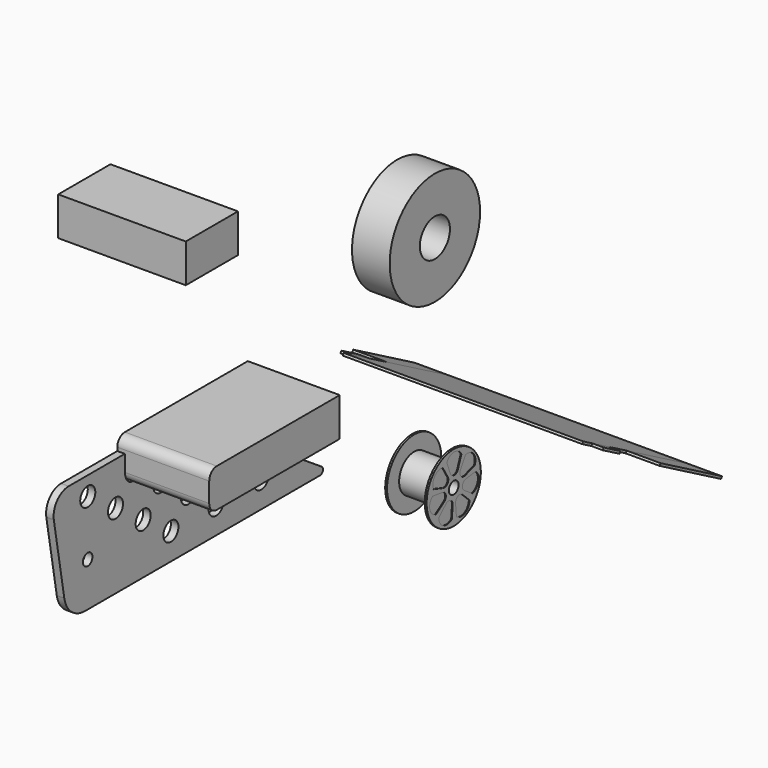
from build123d import *

# Parameters (mm, degrees)
F1_DEPTH  = 31
F2_W      = 43
F2_H      = 13
F3_DEPTH  = 22
F4_R      = 3.175
F5_DEPTH  = 2.54
F6_R      = 1.27
F7_R      = 19.05
F7_R_2    = 6.35
F8_DEPTH  = 12.7
F9_R      = 6.35
F10_DEPTH = 12.7
F11_R     = 11.43
F12_DEPTH = 0.635
F13_R     = 11.43
F14_DEPTH = 0.635
F15_R     = 2.0574
F16_DEPTH = 71.83142
F18_DEPTH = 0.2286
F20_DEPTH = 0.2286
F21_R     = 2
F22_DEPTH = 61.03642
F24_DEPTH = 80.79232
F26_DEPTH = 11.43
F27_W     = 11.43
F27_H     = 29.595654
F27_W_2   = 3.81
F27_H_2   = 8.003125
F28_DEPTH = 0.762


with BuildPart() as f1:
    # F0 (on Right) → F1 (new body)
    with BuildSketch(Plane.YZ):
        with BuildLine():
            Line((-15.227296, 13), (-67.052296, 13))
            ThreePointArc((-67.052296, 13), (-69.29736, 12.070064), (-70.227296, 9.825))
            Line((-70.227296, 9.825), (-70.227296, 3.175))
            ThreePointArc((-70.227296, 3.175), (-69.29736, 0.929936), (-67.052296, 0))
            Line((-67.052296, 0), (-15.227296, 0))
            Line((-15.227296, 0), (-15.227296, 13))
        make_face()
    extrude(amount=F1_DEPTH)


with BuildPart() as f3:
    # F2 (on Front) → F3 (new body)
    with BuildSketch(Plane.XZ):
        with Locations((-36.99542, 39.725756)):
            Rectangle(F2_W, F2_H)
    extrude(amount=F3_DEPTH)


with BuildPart() as f5:
    # F4 (on Right) → F5 (new body)
    with BuildSketch(Plane.YZ):
        with BuildLine():
            ThreePointArc((-95.734057, -23.838225), (-92.693498, -29.104628), (-86.979116, -31.184493))
            Line((-86.979116, -31.184493), (-14.050841, -31.184493))
            Line((-14.050841, -31.184493), (16.251289, -31.184493))
            Line((16.251289, -31.184493), (-43.966562, 8.672833))
            Line((-43.966562, 8.672833), (-93.898999, 8.672833))
            ThreePointArc((-93.898999, 8.672833), (-98.763381, 6.404535), (-100.152528, 1.220167))
            Line((-100.152528, 1.220167), (-95.734057, -23.838225))
        make_face()
        with Locations((-50.811946, -22.183415)):
            Circle(F4_R, mode=Mode.SUBTRACT)
        with Locations((-62.490359, -14.006102)):
            Circle(F4_R, mode=Mode.SUBTRACT)
        with Locations((-43.440359, -14.006102)):
            Circle(F4_R, mode=Mode.SUBTRACT)
        with Locations((-31.761946, -22.183415)):
            Circle(F4_R, mode=Mode.SUBTRACT)
        with Locations((-12.711946, -22.183415)):
            Circle(F4_R, mode=Mode.SUBTRACT)
        with Locations((-24.390359, -14.006102)):
            Circle(F4_R, mode=Mode.SUBTRACT)
        with Locations((-74.168772, -5.828789)):
            Circle(F4_R, mode=Mode.SUBTRACT)
        with Locations((-55.118772, -5.828789)):
            Circle(F4_R, mode=Mode.SUBTRACT)
        with Locations((-85.847185, 2.348524)):
            Circle(F4_R, mode=Mode.SUBTRACT)
        with Locations((-66.797185, 2.348524)):
            Circle(F4_R, mode=Mode.SUBTRACT)
        with Locations((-47.747185, 2.348524)):
            Circle(F4_R, mode=Mode.SUBTRACT)
        with Locations((-36.068772, -5.828789)):
            Circle(F4_R, mode=Mode.SUBTRACT)
    extrude(amount=F5_DEPTH)

    # F6
    f6_edges = [f5.edges().sort_by_distance(p)[0] for p in [
        (1.27, 16.251289, -31.184493),
    ]]
    fillet(f6_edges, radius=F6_R)

    # F21 (on face) → F22 (cut, through all)
    with BuildSketch(Plane.YZ.offset(2.54)):
        with Locations((-85.889928, -16.316278)):
            Circle(F21_R)
    extrude(amount=-F22_DEPTH, mode=Mode.SUBTRACT)


with BuildPart() as f8:
    # F7 (on Right) → F8 (new body)
    with BuildSketch(Plane.YZ):
        with Locations((47.7436, 28.159944)):
            Circle(F7_R)
        with Locations((47.7436, 28.159944)):
            Circle(F7_R_2, mode=Mode.SUBTRACT)
    extrude(amount=F8_DEPTH)


with BuildPart() as f10:
    # F9 (on Right) → F10 (new body)
    with BuildSketch(Plane.YZ):
        with Locations((54.895338, -48.721176)):
            Circle(F9_R)
    extrude(amount=F10_DEPTH)

    # F11 (on face) → F12 (join)
    with BuildSketch(Plane.YZ.offset(12.7)):
        with Locations((54.895338, -48.721176)):
            Circle(F11_R)
    extrude(amount=F12_DEPTH)

    # F13 (on face) → F14 (join)
    with BuildSketch(Plane(origin=(0, 0, 0), x_dir=(0, -1, 0), z_dir=(-1, 0, 0))):
        with Locations((-54.895338, -48.721176)):
            Circle(F13_R)
    extrude(amount=F14_DEPTH)

    # F15 (on face) → F16 (cut, through all)
    with BuildSketch(Plane.YZ.offset(13.335)):
        with Locations((54.895338, -48.721176)):
            Circle(F15_R)
    extrude(amount=-F16_DEPTH, mode=Mode.SUBTRACT)

    # F17 (on face) → F18 (cut)
    with BuildSketch(Plane.YZ.offset(13.335)):
        with BuildLine():
            ThreePointArc((58.125121, -40.131757), (56.870798, -38.723311), (55.058794, -38.200159))
            Line((55.058794, -38.200159), (55.058794, -45.11524))
            ThreePointArc((55.058794, -45.11524), (56.02756, -44.81332), (56.653269, -44.014476))
            Line((56.653269, -44.014476), (58.125121, -40.131757))
        make_face()
        with BuildLine():
            Line((55.058794, -45.11524), (55.058794, -38.200159))
            ThreePointArc((55.058794, -38.200159), (53.24679, -38.723311), (51.992467, -40.131757))
            Line((51.992467, -40.131757), (53.46432, -44.014476))
            ThreePointArc((53.46432, -44.014476), (54.090028, -44.81332), (55.058794, -45.11524))
        make_face()
        with BuildLine():
            ThreePointArc((50.25514, -40.968409), (48.371915, -41.070927), (46.833132, -42.161429))
            ThreePointArc((46.833132, -42.161429), (46.112383, -43.904291), (46.431492, -45.763112))
            Line((46.431492, -45.763112), (50.38481, -47.033207))
            ThreePointArc((50.38481, -47.033207), (52.23956, -46.472911), (52.373087, -44.539986))
            Line((52.373087, -44.539986), (50.25514, -40.968409))
        make_face()
        with BuildLine():
            ThreePointArc((46.002408, -47.643053), (44.908388, -49.179336), (44.801561, -51.062322))
            ThreePointArc((44.801561, -51.062322), (45.714806, -52.712483), (47.367052, -53.621949))
            Line((47.367052, -53.621949), (50.824905, -51.323013))
            ThreePointArc((50.824905, -51.323013), (51.543266, -49.523572), (50.115297, -48.214017))
            Line((50.115297, -48.214017), (46.002408, -47.643053))
        make_face()
        with BuildLine():
            ThreePointArc((48.569319, -55.129545), (49.088324, -56.942741), (50.493896, -58.200284))
            ThreePointArc((50.493896, -58.200284), (52.353442, -58.51514), (54.094651, -57.790404))
            Line((54.094651, -57.790404), (54.453206, -53.653582))
            ThreePointArc((54.453206, -53.653582), (53.494237, -51.970012), (51.580062, -52.269949))
            Line((51.580062, -52.269949), (48.569319, -55.129545))
        make_face()
        with BuildLine():
            ThreePointArc((56.022938, -57.790404), (57.764146, -58.51514), (59.623692, -58.200284))
            ThreePointArc((59.623692, -58.200284), (61.029264, -56.942741), (61.548269, -55.129545))
            Line((61.548269, -55.129545), (58.537526, -52.269949))
            ThreePointArc((58.537526, -52.269949), (56.623351, -51.970012), (55.664383, -53.653582))
            Line((55.664383, -53.653582), (56.022938, -57.790404))
        make_face()
        with BuildLine():
            ThreePointArc((62.750536, -53.621949), (64.402783, -52.712483), (65.316027, -51.062322))
            ThreePointArc((65.316027, -51.062322), (65.2092, -49.179336), (64.11518, -47.643053))
            Line((64.11518, -47.643053), (60.002291, -48.214017))
            ThreePointArc((60.002291, -48.214017), (58.574322, -49.523572), (59.292683, -51.323013))
            Line((59.292683, -51.323013), (62.750536, -53.621949))
        make_face()
        with BuildLine():
            ThreePointArc((63.686096, -45.763112), (64.005206, -43.904291), (63.284456, -42.161429))
            ThreePointArc((63.284456, -42.161429), (61.745673, -41.070927), (59.862448, -40.968409))
            Line((59.862448, -40.968409), (57.744501, -44.539986))
            ThreePointArc((57.744501, -44.539986), (57.878028, -46.472911), (59.732778, -47.033207))
            Line((59.732778, -47.033207), (63.686096, -45.763112))
        make_face()
    extrude(amount=-F18_DEPTH, mode=Mode.SUBTRACT)

    # F19 (on face) → F20 (cut)
    with BuildSketch(Plane(origin=(-0.635, 0, 0), x_dir=(0, -1, 0), z_dir=(-1, 0, 0))):
        with BuildLine():
            ThreePointArc((-51.926125, -40.364868), (-53.050527, -38.781439), (-54.895338, -38.174644))
            Line((-54.895338, -38.174644), (-54.895338, -44.837232))
            ThreePointArc((-54.895338, -44.837232), (-53.94396, -44.547159), (-53.316263, -43.775629))
            Line((-53.316263, -43.775629), (-51.926125, -40.364868))
        make_face()
        with BuildLine():
            Line((-54.895338, -44.837232), (-54.895338, -38.174644))
            ThreePointArc((-54.895338, -38.174644), (-56.740148, -38.781439), (-57.86455, -40.364868))
            Line((-57.86455, -40.364868), (-56.474412, -43.775629))
            ThreePointArc((-56.474412, -43.775629), (-55.846715, -44.547159), (-54.895338, -44.837232))
        make_face()
        with BuildLine():
            ThreePointArc((-59.577288, -41.189679), (-61.516316, -41.08152), (-63.140948, -42.145521))
            ThreePointArc((-63.140948, -42.145521), (-63.816757, -43.966182), (-63.279836, -45.832527))
            Line((-63.279836, -45.832527), (-59.746459, -46.872248))
            ThreePointArc((-59.746459, -46.872248), (-57.931927, -46.299577), (-57.777385, -44.403107))
            Line((-57.777385, -44.403107), (-59.577288, -41.189679))
        make_face()
        with BuildLine():
            ThreePointArc((-63.702847, -47.685861), (-64.996373, -49.134418), (-65.177446, -51.068))
            ThreePointArc((-65.177446, -51.068), (-64.175355, -52.731532), (-62.381424, -53.475397))
            Line((-62.381424, -53.475397), (-59.365512, -51.361147))
            ThreePointArc((-59.365512, -51.361147), (-58.681902, -49.585434), (-60.068266, -48.282179))
            Line((-60.068266, -48.282179), (-63.702847, -47.685861))
        make_face()
        with BuildLine():
            ThreePointArc((-61.196172, -54.961656), (-60.870145, -56.876136), (-59.471306, -58.223272))
            ThreePointArc((-59.471306, -58.223272), (-57.545911, -58.477002), (-55.845836, -57.538242))
            Line((-55.845836, -57.538242), (-55.618433, -53.862094))
            ThreePointArc((-55.618433, -53.862094), (-56.580517, -52.220488), (-58.463827, -52.491824))
            Line((-58.463827, -52.491824), (-61.196172, -54.961656))
        make_face()
        with BuildLine():
            ThreePointArc((-53.94484, -57.538242), (-52.244764, -58.477002), (-50.319369, -58.223272))
            ThreePointArc((-50.319369, -58.223272), (-48.920531, -56.876136), (-48.594503, -54.961656))
            Line((-48.594503, -54.961656), (-51.326848, -52.491824))
            ThreePointArc((-51.326848, -52.491824), (-53.210158, -52.220488), (-54.172242, -53.862094))
            Line((-54.172242, -53.862094), (-53.94484, -57.538242))
        make_face()
        with BuildLine():
            ThreePointArc((-47.409252, -53.475397), (-45.61532, -52.731532), (-44.613229, -51.068))
            ThreePointArc((-44.613229, -51.068), (-44.794302, -49.134418), (-46.087828, -47.685861))
            Line((-46.087828, -47.685861), (-49.722409, -48.282179))
            ThreePointArc((-49.722409, -48.282179), (-51.108773, -49.585434), (-50.425163, -51.361147))
            Line((-50.425163, -51.361147), (-47.409252, -53.475397))
        make_face()
        with BuildLine():
            ThreePointArc((-46.510839, -45.832527), (-45.973918, -43.966182), (-46.649727, -42.145521))
            ThreePointArc((-46.649727, -42.145521), (-48.274359, -41.08152), (-50.213387, -41.189679))
            Line((-50.213387, -41.189679), (-52.01329, -44.403107))
            ThreePointArc((-52.01329, -44.403107), (-51.858749, -46.299577), (-50.044217, -46.872248))
            Line((-50.044217, -46.872248), (-46.510839, -45.832527))
        make_face()
    extrude(amount=-F20_DEPTH, mode=Mode.SUBTRACT)


with BuildPart() as f24:
    # F23 (on Right) → F24 (new body)
    with BuildSketch(Plane.YZ):
        Polygon((25.126335, -0.95179), (24.755836, -1.617654), (68.946962, -26.20649), (69.317462, -25.540626), align=None)
    extrude(amount=F24_DEPTH)

    # F25 (on face) → F26 (join)
    with BuildSketch(Plane.YZ.offset(80.79232)):
        Polygon((69.317462, -25.540626), (43.455704, -11.150621), (43.085204, -11.816485), (68.946962, -26.20649), align=None)
    extrude(amount=F26_DEPTH)

    # F27 (on face) → F28 (join)
    with BuildSketch(Plane(origin=(0, 5.535725, 9.948821), x_dir=(1, 0, 0), z_dir=(0, 0.48622, 0.873836))):
        with Locations((-5.715, 58.192657)):
            Rectangle(F27_W, F27_H)
        with Locations((82.69732, 30.847131)):
            Rectangle(F27_W_2, F27_H_2)
        with Locations((-1.905, 30.847131)):
            Rectangle(F27_W_2, F27_H_2)
    extrude(amount=-F28_DEPTH)


solid = Compound([f1.part, f3.part, f5.part, f8.part, f10.part, f24.part])
